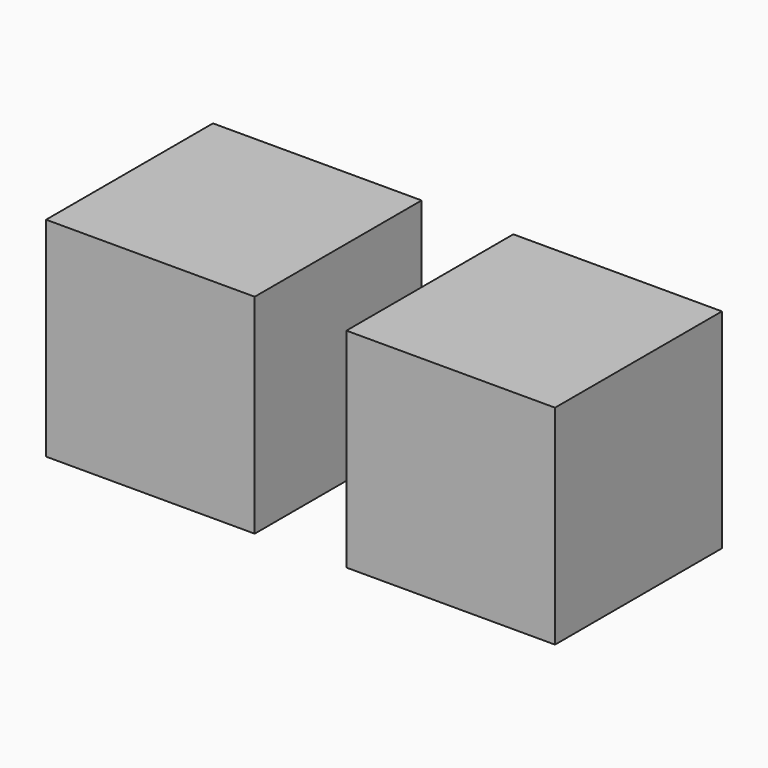
from build123d import *

# Parameters (mm, degrees)
SKETCH_W     = 10
SKETCH_H     = 10
PAD_DEPTH    = 10
SKETCH001_W  = 10
SKETCH001_H  = 10
PAD001_DEPTH = 10


with BuildPart() as cube1:
    # Sketch (on XY_Plane of Origin) → Pad (new body)
    with BuildSketch(Plane.XY):
        with Locations((12.679995, 5)):
            Rectangle(SKETCH_W, SKETCH_H)
    extrude(amount=PAD_DEPTH)


with BuildPart() as cube2:
    # Sketch001 (on XY_Plane001 of Origin002) → Pad001 (new body)
    with BuildSketch(Plane.XY):
        with Locations((27.076489, 5)):
            Rectangle(SKETCH001_W, SKETCH001_H)
    extrude(amount=PAD001_DEPTH)


solid = Compound([cube1.part, cube2.part])
